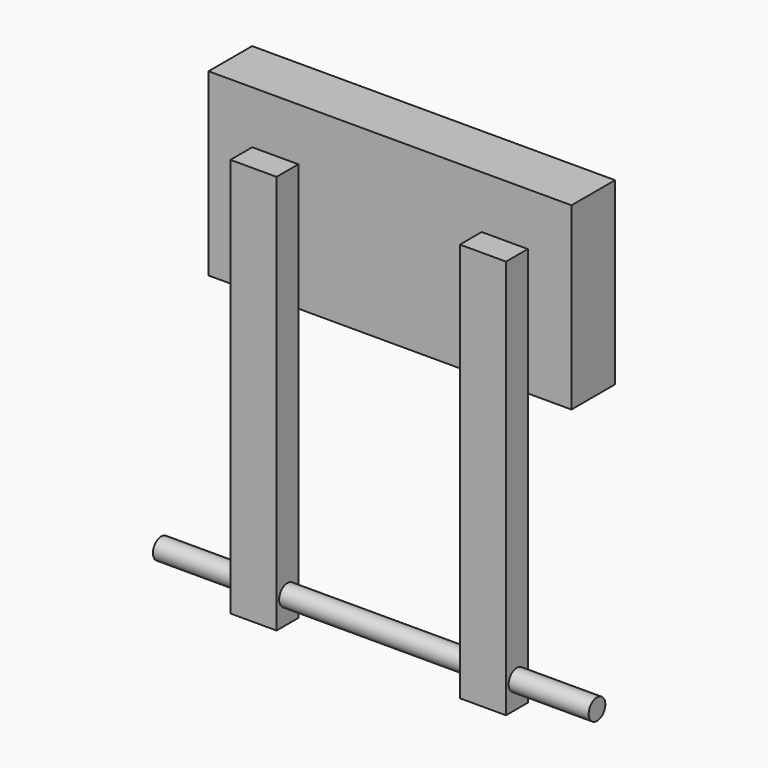
from build123d import *

# Parameters (mm, degrees)
F0_W     = 21.4911662042
F0_H     = 59.2786279198
F1_DEPTH = 25.4
F0_H_2   = 126.9783861313
F2_DEPTH = 12.7
F3_R     = 4.8523486622
F4_DEPTH = 101.6


with BuildPart() as f1:
    # F0 (on Front) → F1 (new body)
    with BuildSketch(Plane.XZ):
        Polygon((84.6221148968, 41.9272296753), (-84.6221148968, 41.9272296753), (-84.6221148968, -41.9272296753), (-64.241476357, -41.9272296753), (-64.241476357, 17.3513982445), (-42.7503101528, 17.3513982445), (-42.7503101528, -41.9272296753), (42.7503101528, -41.9272296753), (42.7503101528, 17.3513982445), (64.241476357, 17.3513982445), (64.241476357, -41.9272296753), (84.6221148968, -41.9272296753), align=None)
        with Locations((-53.4958932549, -12.2879157154)):
            Rectangle(F0_W, F0_H)
        with Locations((53.4958932549, -12.2879157154)):
            Rectangle(F0_W, F0_H)
    extrude(amount=-F1_DEPTH)


with BuildPart() as f2:
    # F0 (on Front) → F2 (new body)
    with BuildSketch(Plane.XZ):
        with Locations((-53.4958932549, -105.4164227409)):
            Rectangle(F0_W, F0_H_2)
        with Locations((-53.4958932549, -12.2879157154)):
            Rectangle(F0_W, F0_H)
    extrude(amount=F2_DEPTH)


with BuildPart() as f2b:
    # F0 (on Front) → F2, piece 2 (new body)
    with BuildSketch(Plane.XZ):
        with Locations((53.4958932549, -105.4164227409)):
            Rectangle(F0_W, F0_H_2)
        with Locations((53.4958932549, -12.2879157154)):
            Rectangle(F0_W, F0_H)
    extrude(amount=F2_DEPTH)


with BuildPart() as f4:
    # F3 (on Right) → F4 (new body, symmetric)
    with BuildSketch(Plane.YZ):
        with Locations((-6.35, -156.8118035793)):
            Circle(F3_R)
    extrude(amount=F4_DEPTH, both=True)


solid = Compound([f1.part, f2.part, f2b.part, f4.part])
